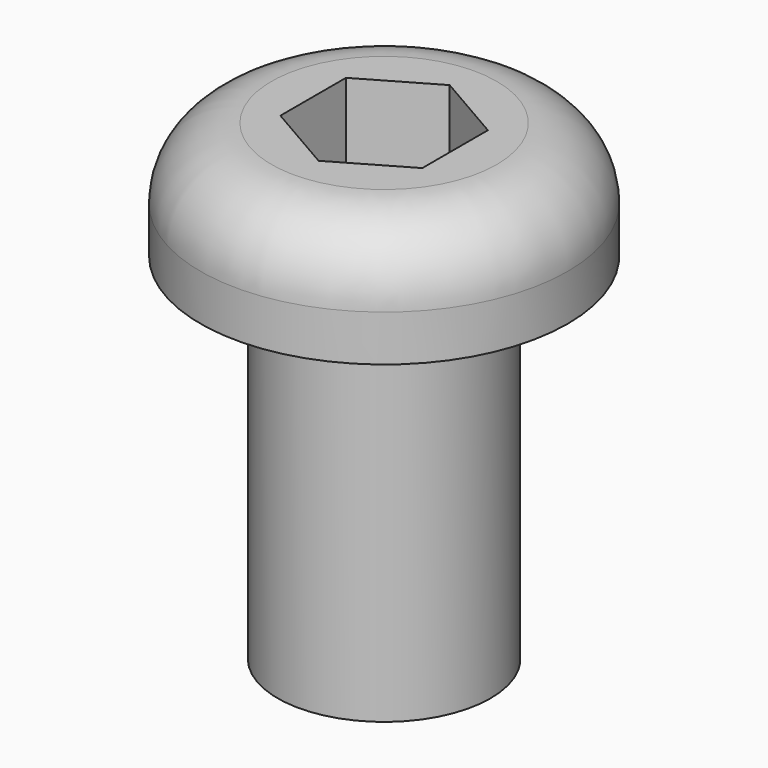
from build123d import *

# Parameters (mm, degrees)
F0_R     = 3
F1_DEPTH = 10
F2_R     = 5.175
F2_R_2   = 3
F3_DEPTH = 3.3
F4_R     = 2
F6_DEPTH = 3


with BuildPart() as f1:
    # F0 (on Top) → F1 (new body)
    with BuildSketch(Plane.XY):
        Circle(F0_R)
    extrude(amount=F1_DEPTH)

    # F2 (on face) → F3 (join)
    with BuildSketch(Plane.XY.offset(10)):
        Circle(F2_R)
        Circle(F2_R_2, mode=Mode.SUBTRACT)
        Circle(F2_R_2)
    extrude(amount=F3_DEPTH)

    # F4
    f4_edges = [f1.edges().sort_by_distance(p)[0] for p in [
        (-5.175, 0, 13.3),
    ]]
    fillet(f4_edges, radius=F4_R)

    # F5 (on face) → F6 (cut)
    with BuildSketch(Plane.XY.offset(13.3)):
        Polygon((2, -1.1547005384), (2, 1.1547005384), (0, 2.3094010768), (-2, 1.1547005384), (-2, -1.1547005384), (0, -2.3094010768), align=None)
    extrude(amount=-F6_DEPTH, mode=Mode.SUBTRACT)


solid = f1.part
